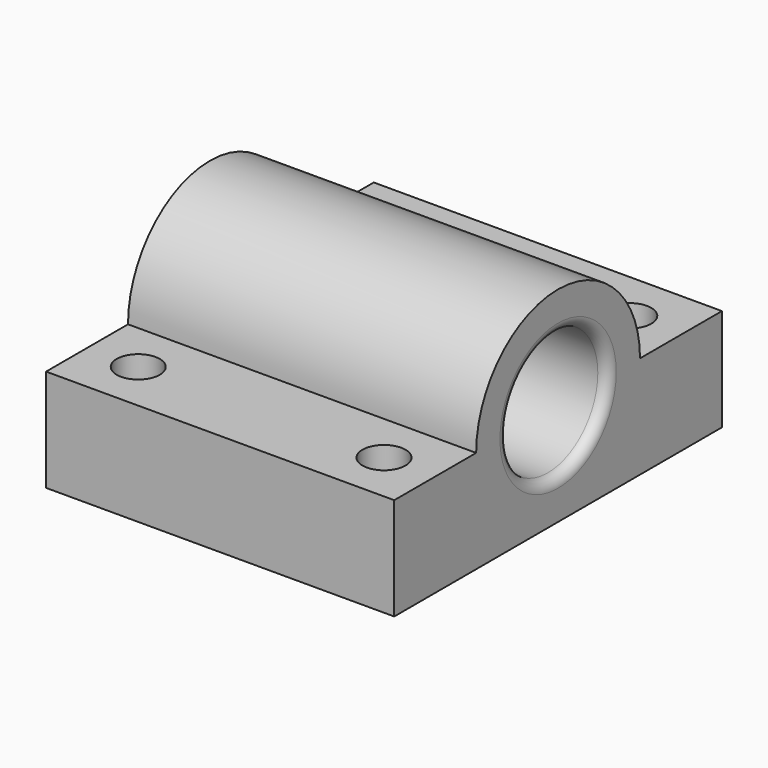
from build123d import *

# Parameters (mm, degrees)
SKETCH_R                 = 3.05
PAD_DEPTH                = 7
PAD_DEPTH_BACK           = 10
SKETCH001_R              = 1.05
POCKET_DEPTH             = 5
FILLET_R                 = 0.5
CLONE003_PLACEMENT_ANGLE = 90


with BuildPart() as part:
    # Sketch → Pad (new body, two sides)
    with BuildSketch(Plane.XZ) as pad_sk:
        with BuildLine():
            Line((10, 0), (10, -5))
            Line((10, -5), (-10, -5))
            Line((-10, -5), (-10, 0))
            Line((-10, 0), (-5, 0))
            ThreePointArc((5, 0), (0, 5), (-5, 0))
            Line((10, 0), (5, 0))
        make_face()
        Circle(SKETCH_R, mode=Mode.SUBTRACT)
    extrude(amount=PAD_DEPTH)
    extrude(pad_sk.sketch, amount=-PAD_DEPTH_BACK)

    # Sketch001 → Pocket (cut)
    with BuildSketch(Plane(origin=(0, 0, -5), x_dir=(1, 0, 0), z_dir=(0, 0, -1))):
        with Locations((-7.5, 4.5)):
            Circle(SKETCH001_R)
        with Locations((-7.5, -7.5)):
            Circle(SKETCH001_R)
        with Locations((7.5, -7.5)):
            Circle(SKETCH001_R)
        with Locations((7.5, 4.5)):
            Circle(SKETCH001_R)
    extrude(amount=-POCKET_DEPTH, mode=Mode.SUBTRACT)

    # Fillet
    fillet_edges = [part.edges().sort_by_distance(p)[0] for p in [
        (-3.05, 10, 0),
        (-3.05, -7, 0),
    ]]
    fillet(fillet_edges, radius=FILLET_R)


with BuildPart() as part_1:
    # Clone003 placement: moved
    add(part.part.moved(Location((44, 105, 11))).rotate(Axis((44, 105, 11), (0, 0, 1)), CLONE003_PLACEMENT_ANGLE))


solid = part_1.part
